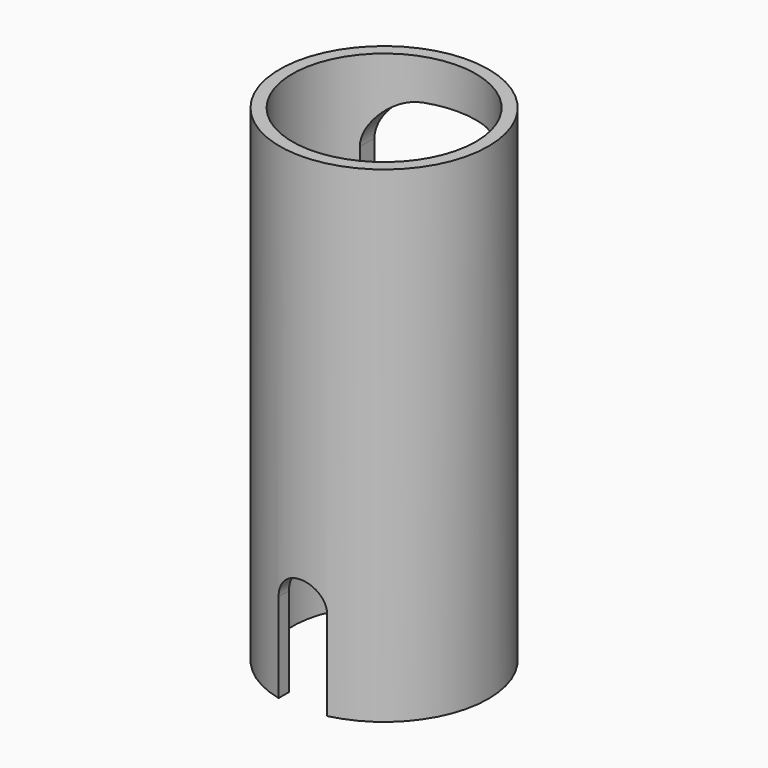
from build123d import *

# Parameters (mm, degrees)
F0_R     = 25.75
F0_R_2   = 22.65
F1_DEPTH = 120
F3_DEPTH = 25.751
F4_DEPTH = 30


with BuildPart() as f1:
    # F0 (on Top) → F1 (new body)
    with BuildSketch(Plane.XY):
        Circle(F0_R)
        Circle(F0_R_2, mode=Mode.SUBTRACT)
    extrude(amount=F1_DEPTH)

    # F2 (on Front) → F3 (cut, through all)
    with BuildSketch(Plane.XZ):
        with BuildLine():
            Line((7.5, 110), (-7.5, 110))
            ThreePointArc((-7.5, 110), (-14.571068, 107.071068), (-17.5, 100))
            Line((-17.5, 100), (-17.5, 70))
            ThreePointArc((-17.5, 70), (-14.571068, 62.928932), (-7.5, 60))
            Line((-7.5, 60), (7.5, 60))
            ThreePointArc((7.5, 60), (14.571068, 62.928932), (17.5, 70))
            Line((17.5, 70), (17.5, 100))
            ThreePointArc((17.5, 100), (14.571068, 107.071068), (7.5, 110))
        make_face()
    extrude(amount=-F3_DEPTH, mode=Mode.SUBTRACT)

    # F2 (on Front) → F4 (cut, symmetric)
    with BuildSketch(Plane.XZ):
        with BuildLine():
            Line((-6, 22), (-6, 0))
            Line((-6, 0), (6, 0))
            Line((6, 0), (6, 22))
            ThreePointArc((6, 22), (0, 28), (-6, 22))
        make_face()
    extrude(amount=F4_DEPTH, both=True, mode=Mode.SUBTRACT)


solid = f1.part
